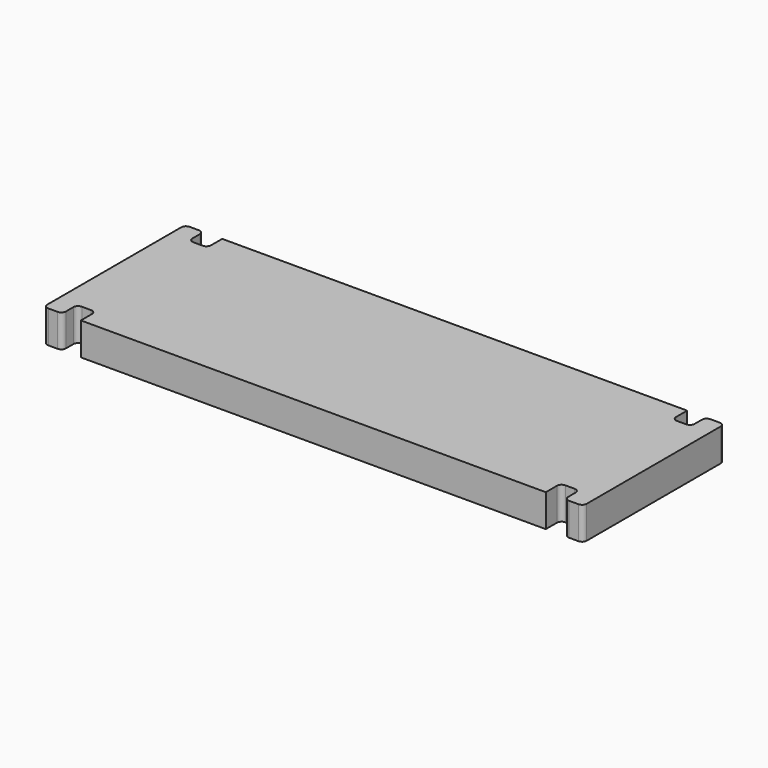
from build123d import *

# Parameters (mm, degrees)
F2_DEPTH = 3.5
F3_DEPTH = 3.5


with BuildPart() as f2:
    # F1 (on Top) → F2 (new body)
    with BuildSketch(Plane.XY):
        with BuildLine():
            Line((-22.5, 9.5), (-24.5, 9.5))
            ThreePointArc((-24.5, 9.5), (-24.853553, 9.353553), (-25, 9))
            Line((-25, 9), (-25, 8))
            ThreePointArc((-25, 8), (-25.146447, 7.646447), (-25.5, 7.5))
            Line((-25.5, 7.5), (-26.5, 7.5))
            ThreePointArc((-26.5, 7.5), (-26.853553, 7.646447), (-27, 8))
            Line((-27, 8), (-27, 9))
            ThreePointArc((-27, 9), (-27.146447, 9.353553), (-27.5, 9.5))
            Line((-27.5, 9.5), (-28.5, 9.5))
            ThreePointArc((-28.5, 9.5), (-28.853553, 9.353553), (-29, 9))
            Line((-29, 9), (-29, 0))
            Line((-29, 0), (-29, -9))
            ThreePointArc((-29, -9), (-28.853553, -9.353553), (-28.5, -9.5))
            Line((-28.5, -9.5), (-27.5, -9.5))
            ThreePointArc((-27.5, -9.5), (-27.146447, -9.353553), (-27, -9))
            Line((-27, -9), (-27, -8))
            ThreePointArc((-27, -8), (-26.853553, -7.646447), (-26.5, -7.5))
            Line((-26.5, -7.5), (-25.5, -7.5))
            ThreePointArc((-25.5, -7.5), (-25.146447, -7.646447), (-25, -8))
            Line((-25, -8), (-25, -9))
            ThreePointArc((-25, -9), (-24.853553, -9.353553), (-24.5, -9.5))
            Line((-24.5, -9.5), (-22.5, -9.5))
            ThreePointArc((-22.5, -9.5), (-22.146447, -9.353553), (-22, -9))
            ThreePointArc((-22, -9), (-21.853553, -8.646447), (-21.5, -8.5))
            Line((-21.5, -8.5), (0, -8.5))
            Line((0, -8.5), (21.5, -8.5))
            ThreePointArc((21.5, -8.5), (21.853553, -8.646447), (22, -9))
            ThreePointArc((22, -9), (22.146447, -9.353553), (22.5, -9.5))
            Line((22.5, -9.5), (24.5, -9.5))
            ThreePointArc((24.5, -9.5), (24.853553, -9.353553), (25, -9))
            Line((25, -9), (25, -8))
            ThreePointArc((25, -8), (25.146447, -7.646447), (25.5, -7.5))
            Line((25.5, -7.5), (26.5, -7.5))
            ThreePointArc((26.5, -7.5), (26.853553, -7.646447), (27, -8))
            Line((27, -8), (27, -9))
            ThreePointArc((27, -9), (27.146447, -9.353553), (27.5, -9.5))
            Line((27.5, -9.5), (28.5, -9.5))
            ThreePointArc((28.5, -9.5), (28.853553, -9.353553), (29, -9))
            Line((29, -9), (29, 0))
            Line((29, 0), (29, 9))
            ThreePointArc((29, 9), (28.853553, 9.353553), (28.5, 9.5))
            Line((28.5, 9.5), (27.5, 9.5))
            ThreePointArc((27.5, 9.5), (27.146447, 9.353553), (27, 9))
            Line((27, 9), (27, 8))
            ThreePointArc((27, 8), (26.853553, 7.646447), (26.5, 7.5))
            Line((26.5, 7.5), (25.5, 7.5))
            ThreePointArc((25.5, 7.5), (25.146447, 7.646447), (25, 8))
            Line((25, 8), (25, 9))
            ThreePointArc((25, 9), (24.853553, 9.353553), (24.5, 9.5))
            Line((24.5, 9.5), (22.5, 9.5))
            ThreePointArc((22.5, 9.5), (22.146447, 9.353553), (22, 9))
            ThreePointArc((22, 9), (21.853553, 8.646447), (21.5, 8.5))
            Line((21.5, 8.5), (0, 8.5))
            Line((0, 8.5), (-10, 8.5))
            ThreePointArc((-10, 8.5), (-10.353553, 8.353553), (-10.5, 8))
            Line((-10.5, 8), (-10.5, 4))
            ThreePointArc((-10.5, 4), (-10.646447, 3.646447), (-11, 3.5))
            Line((-11, 3.5), (-19, 3.5))
            ThreePointArc((-19, 3.5), (-19.353553, 3.646447), (-19.5, 4))
            Line((-19.5, 4), (-19.5, 8))
            ThreePointArc((-19.5, 8), (-19.646447, 8.353553), (-20, 8.5))
            Line((-20, 8.5), (-21.5, 8.5))
            ThreePointArc((-21.5, 8.5), (-21.853553, 8.646447), (-22, 9))
            ThreePointArc((-22, 9), (-22.146447, 9.353553), (-22.5, 9.5))
        make_face()
    extrude(amount=F2_DEPTH)


with BuildPart() as f3:
    # F0 (on Top) → F3 (new body)
    with BuildSketch(Plane.XY):
        with BuildLine():
            Line((-27.5, 9.5), (-28.5, 9.5))
            ThreePointArc((-28.5, 9.5), (-28.853553, 9.353553), (-29, 9))
            Line((-29, 9), (-29, 0))
            Line((-29, 0), (-29, -9))
            ThreePointArc((-29, -9), (-28.853553, -9.353553), (-28.5, -9.5))
            Line((-28.5, -9.5), (-27.5, -9.5))
            ThreePointArc((-27.5, -9.5), (-27.146447, -9.353553), (-27, -9))
            Line((-27, -9), (-27, -8))
            ThreePointArc((-27, -8), (-26.853553, -7.646447), (-26.5, -7.5))
            Line((-26.5, -7.5), (-25.5, -7.5))
            ThreePointArc((-25.5, -7.5), (-25.146447, -7.646447), (-25, -8))
            Line((-25, -8), (-25, -9.5))
            Line((-25, -9.5), (0, -9.5))
            Line((0, -9.5), (25, -9.5))
            Line((25, -9.5), (25, -8))
            ThreePointArc((25, -8), (25.146447, -7.646447), (25.5, -7.5))
            Line((25.5, -7.5), (26.5, -7.5))
            ThreePointArc((26.5, -7.5), (26.853553, -7.646447), (27, -8))
            Line((27, -8), (27, -9))
            ThreePointArc((27, -9), (27.146447, -9.353553), (27.5, -9.5))
            Line((27.5, -9.5), (28.5, -9.5))
            ThreePointArc((28.5, -9.5), (28.853553, -9.353553), (29, -9))
            Line((29, -9), (29, 0))
            Line((29, 0), (29, 9))
            ThreePointArc((29, 9), (28.853553, 9.353553), (28.5, 9.5))
            Line((28.5, 9.5), (27.5, 9.5))
            ThreePointArc((27.5, 9.5), (27.146447, 9.353553), (27, 9))
            Line((27, 9), (27, 8))
            ThreePointArc((27, 8), (26.853553, 7.646447), (26.5, 7.5))
            Line((26.5, 7.5), (25.5, 7.5))
            ThreePointArc((25.5, 7.5), (25.146447, 7.646447), (25, 8))
            Line((25, 8), (25, 9.5))
            Line((25, 9.5), (0, 9.5))
            Line((0, 9.5), (-25, 9.5))
            Line((-25, 9.5), (-25, 8))
            ThreePointArc((-25, 8), (-25.146447, 7.646447), (-25.5, 7.5))
            Line((-25.5, 7.5), (-26.5, 7.5))
            ThreePointArc((-26.5, 7.5), (-26.853553, 7.646447), (-27, 8))
            Line((-27, 8), (-27, 9))
            ThreePointArc((-27, 9), (-27.146447, 9.353553), (-27.5, 9.5))
        make_face()
    extrude(amount=F3_DEPTH)


solid = Compound([f2.part, f3.part])
